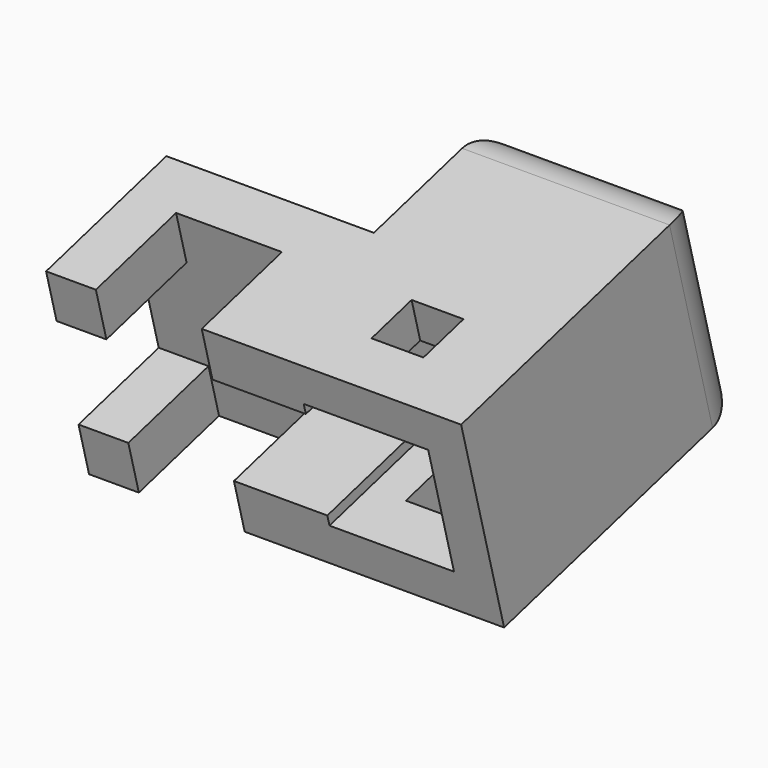
from build123d import *

# Parameters (mm, degrees)
SKETCH053_W             = 40
SKETCH053_H             = 15
PAD031_DEPTH            = 10
POCKET022_DEPTH         = 10
SKETCH051_W             = 20
SKETCH051_H             = 20
PAD030_DEPTH            = 30
SKETCH058_R             = 3
POCKET023_DEPTH         = 250
SKETCH052_W             = 7
SKETCH052_H             = 10
POCKET024_DEPTH         = 27
SKETCH055_W             = 10
SKETCH055_H             = 10
POCKET021_DEPTH         = 20
FILLET004_R             = 4
SKETCH057_W             = 5
SKETCH057_H             = 5
POCKET025_DEPTH         = 25
SKETCH008_W             = 12
SKETCH008_H             = 12
POCKET005_DEPTH         = 17.5
BODY016_PLACEMENT_ANGLE = 285


with BuildPart() as part:
    # Sketch053 → Pad031 (new body, symmetric)
    with BuildSketch(Plane.XZ):
        with Locations((-10, 7.5)):
            Rectangle(SKETCH053_W, SKETCH053_H)
    extrude(amount=PAD031_DEPTH, both=True)

    # Sketch056 → Pocket022 (cut)
    with BuildSketch(Plane.XY):
        Polygon((-25.2, 5.1), (-30.2, 5.1), (-30.2, -5.1), (-25.2, -5.1), (-25.2, -10), (-15, -10), (-15, 10), (-25.2, 10), align=None)
    extrude(amount=POCKET022_DEPTH, mode=Mode.SUBTRACT)

    # Sketch051 → Pad030 (join)
    with BuildSketch(Plane.XY):
        Rectangle(SKETCH051_W, SKETCH051_H)
    extrude(amount=PAD030_DEPTH)

    # Sketch058 → Pocket023 (cut, symmetric)
    with BuildSketch(Plane.XY):
        Circle(SKETCH058_R)
    extrude(amount=POCKET023_DEPTH, both=True, mode=Mode.SUBTRACT)

    # Sketch052 → Pocket024 (cut)
    with BuildSketch(Plane.XY):
        Rectangle(SKETCH052_W, SKETCH052_H)
    extrude(amount=POCKET024_DEPTH, mode=Mode.SUBTRACT)

    # Sketch055 → Pocket021 (cut)
    with BuildSketch(Plane.YZ):
        with Locations((0, 5)):
            Rectangle(SKETCH055_W, SKETCH055_H)
    extrude(amount=-POCKET021_DEPTH, mode=Mode.SUBTRACT)

    # Fillet004
    fillet004_edges = [part.edges().sort_by_distance(p)[0] for p in [
        (0, -10, 30),
        (10, 0, 30),
        (-10, 0, 30),
        (0, 10, 30),
    ]]
    fillet(fillet004_edges, radius=FILLET004_R)

    # Sketch057 → Pocket025 (cut, symmetric)
    with BuildSketch(Plane.XZ):
        with Locations((0, 7.5)):
            Rectangle(SKETCH057_W, SKETCH057_H)
    extrude(amount=POCKET025_DEPTH, both=True, mode=Mode.SUBTRACT)

    # Sketch008 → Pocket005 (cut, symmetric)
    with BuildSketch(Plane.XY):
        Rectangle(SKETCH008_W, SKETCH008_H)
    extrude(amount=POCKET005_DEPTH, both=True, mode=Mode.SUBTRACT)


with BuildPart() as part_1:
    # Body016 placement: moved
    add(part.part.moved(Location((191, -1.478585, -56.301099))).rotate(Axis((191, -1.478585, -56.301099), (1, 0, 0)), BODY016_PLACEMENT_ANGLE))


solid = part_1.part
